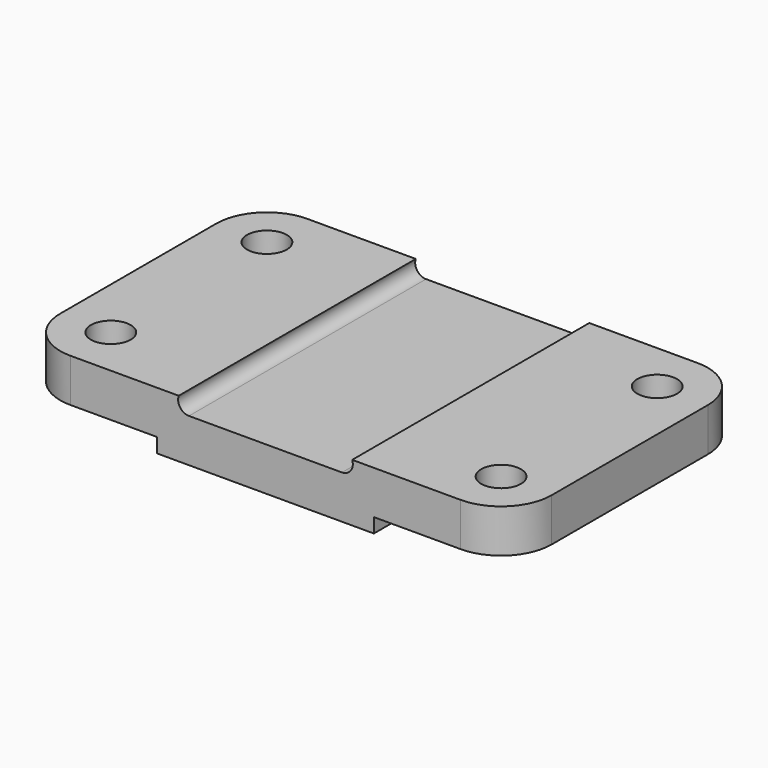
from build123d import *

# Parameters (mm, degrees)
F0_R     = 5.5
F0_W     = 48
F0_H     = 82
F1_DEPTH = 16
F2_W     = 14
F2_H     = 4
F2_W_2   = 24
F3_DEPTH = 82.001


with BuildPart() as f1:
    # F0 (on Top) → F1 (new body)
    with BuildSketch(Plane.XY):
        with BuildLine():
            ThreePointArc((68, 27), (63.899495, 36.899495), (54, 41))
            Line((54, 41), (24, 41))
            Line((24, 41), (24, -41))
            Line((24, -41), (54, -41))
            ThreePointArc((54, -41), (63.899495, -36.899495), (68, -27))
            Line((68, -27), (68, 27))
        make_face()
        with Locations((54, -27)):
            Circle(F0_R, mode=Mode.SUBTRACT)
        with Locations((54, 27)):
            Circle(F0_R, mode=Mode.SUBTRACT)
        Rectangle(F0_W, F0_H)
        with BuildLine():
            Line((-24, -41), (-24, 41))
            Line((-24, 41), (-54, 41))
            ThreePointArc((-54, 41), (-63.899495, 36.899495), (-68, 27))
            Line((-68, 27), (-68, -27))
            ThreePointArc((-68, -27), (-63.899495, -36.899495), (-54, -41))
            Line((-54, -41), (-24, -41))
        make_face()
        with Locations((-54, -27)):
            Circle(F0_R, mode=Mode.SUBTRACT)
        with Locations((-54, 27)):
            Circle(F0_R, mode=Mode.SUBTRACT)
    extrude(amount=F1_DEPTH)

    # F2 (on face) → F3 (cut, through all)
    with BuildSketch(Plane.XZ.offset(41)):
        with Locations((-61, 2)):
            Rectangle(F2_W, F2_H)
        with Locations((61, 2)):
            Rectangle(F2_W, F2_H)
        with BuildLine():
            Line((24, 16), (-24, 16))
            ThreePointArc((-24, 16), (-23.621063, 13.267949), (-21.171573, 12))
            Line((-21.171573, 12), (21.171573, 12))
            ThreePointArc((21.171573, 12), (23.621063, 13.267949), (24, 16))
        make_face()
        with Locations((-42, 2)):
            Rectangle(F2_W_2, F2_H)
        with Locations((42, 2)):
            Rectangle(F2_W_2, F2_H)
    extrude(amount=-F3_DEPTH, mode=Mode.SUBTRACT)


solid = f1.part
